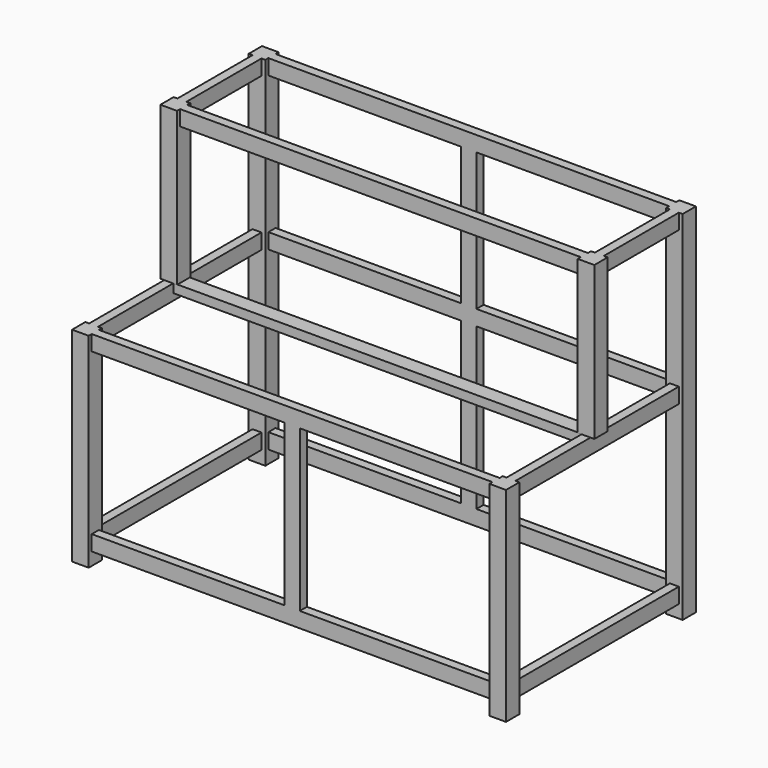
from build123d import *

# Parameters (mm, degrees)
F0_W      = 1700
F0_H      = 800
F1_DEPTH  = 65
F2_W      = 1570
F2_H      = 15
F3_DEPTH  = 800.001
F4_W      = 1570
F4_H      = 50
F4_W_2    = 755
F4_H_2    = 630
F5_DEPTH  = 50.001
F6_W      = 35
F6_H      = 60
F7_DEPTH  = 800
F8_W      = 65
F8_H      = 65
F9_DEPTH  = 1400
F10_W     = 35
F10_H     = 60
F11_DEPTH = 1570
F12_W     = 60
F12_H     = 35
F13_DEPTH = 1230
F14_W     = 60
F14_H     = 35
F15_DEPTH = 1600
F16_W     = 65
F16_H     = 65
F17_DEPTH = 600
F18_W     = 35
F18_H     = 60
F19_DEPTH = 367.5
F20_W     = 35
F20_H     = 60
F21_DEPTH = 1570


with BuildPart() as f1:
    # F0 (on Front) → F1 (new body)
    with BuildSketch(Plane.XZ):
        with Locations((850, 400)):
            Rectangle(F0_W, F0_H)
    extrude(amount=F1_DEPTH)

    # F2 (on face) → F3 (cut, through all)
    with BuildSketch(Plane.XY.offset(800)):
        with Locations((850, -57.5)):
            Rectangle(F2_W, F2_H)
        with Locations((850, -7.5)):
            Rectangle(F2_W, F2_H)
    extrude(amount=-F3_DEPTH, mode=Mode.SUBTRACT)

    # F4 (on face) → F5 (cut, through all)
    with BuildSketch(Plane.XZ.offset(50)):
        with Locations((850, 25)):
            Rectangle(F4_W, F4_H)
        with Locations((1257.5, 425)):
            Rectangle(F4_W_2, F4_H_2)
        with Locations((442.5, 425)):
            Rectangle(F4_W_2, F4_H_2)
    extrude(amount=-F5_DEPTH, mode=Mode.SUBTRACT)

    # F6 (on face) → F7 (join)
    with BuildSketch(Plane(origin=(0, 0, 0), x_dir=(-1, 0, 0), z_dir=(0, 1, 0))):
        with Locations((-1667.5, 770)):
            Rectangle(F6_W, F6_H)
        with Locations((-1667.5, 80)):
            Rectangle(F6_W, F6_H)
        with Locations((-32.5, 770)):
            Rectangle(F6_W, F6_H)
        with Locations((-32.5, 80)):
            Rectangle(F6_W, F6_H)
    extrude(amount=F7_DEPTH)

    # F8 (on face) → F9 (join)
    with BuildSketch(Plane(origin=(0, 0, 0), x_dir=(1, 0, 0), z_dir=(0, 0, -1))):
        with Locations((1667.5, -832.5)):
            Rectangle(F8_W, F8_H)
        with Locations((32.5, -832.5)):
            Rectangle(F8_W, F8_H)
    extrude(amount=-F9_DEPTH)

    # F10 (on face) → F11 (join)
    with BuildSketch(Plane.YZ.offset(65)):
        with Locations((832.5, 1370)):
            Rectangle(F10_W, F10_H)
        with Locations((832.5, 80)):
            Rectangle(F10_W, F10_H)
        with Locations((832.5, 770)):
            Rectangle(F10_W, F10_H)
    extrude(amount=F11_DEPTH)

    # F12 (on face) → F13 (join, through all)
    with BuildSketch(Plane.XY.offset(110)):
        with Locations((850, 832.5)):
            Rectangle(F12_W, F12_H)
    extrude(amount=F13_DEPTH)

    # F14 (on face) → F15 (join, through all)
    with BuildSketch(Plane.YZ.offset(50)):
        with Locations((400, 782.5)):
            Rectangle(F14_W, F14_H)
    extrude(amount=F15_DEPTH)

    # F16 (on face) → F17 (join)
    with BuildSketch(Plane.XY.offset(800)):
        with Locations((32.5, 400)):
            Rectangle(F16_W, F16_H)
        with Locations((1667.5, 400)):
            Rectangle(F16_W, F16_H)
    extrude(amount=F17_DEPTH)

    # F18 (on face) → F19 (join, through all)
    with BuildSketch(Plane.XZ.offset(-800)):
        with Locations((1667.5, 1370)):
            Rectangle(F18_W, F18_H)
        with Locations((32.5, 1370)):
            Rectangle(F18_W, F18_H)
    extrude(amount=F19_DEPTH)

    # F20 (on face) → F21 (join, through all)
    with BuildSketch(Plane.YZ.offset(65)):
        with Locations((400, 1370)):
            Rectangle(F20_W, F20_H)
    extrude(amount=F21_DEPTH)


solid = f1.part
